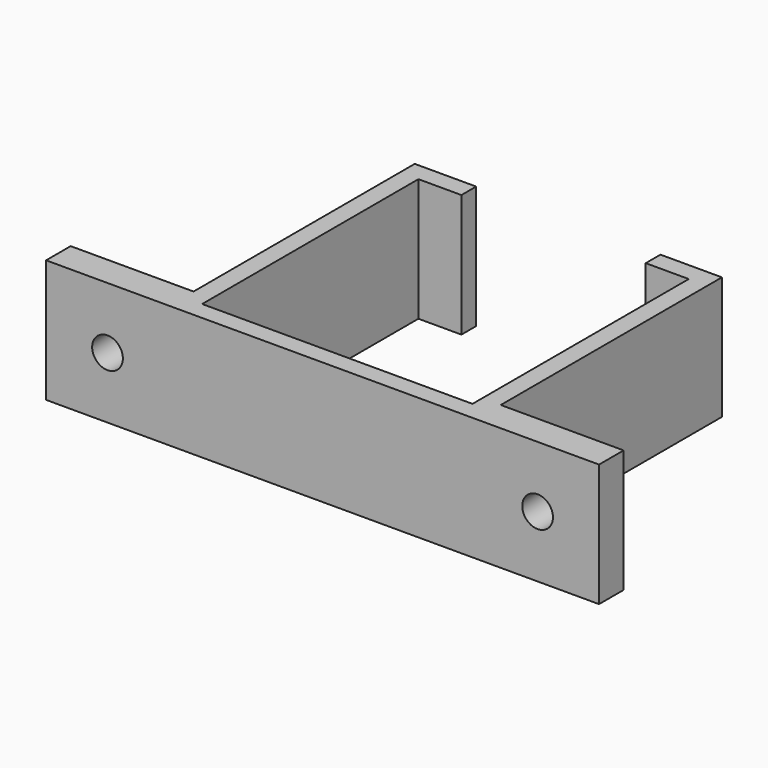
from build123d import *

# Parameters (mm, degrees)
F0_W     = 20
F0_H     = 5
F1_DEPTH = 20
F2_R     = 2.5
F3_DEPTH = 25


with BuildPart() as f1:
    # F0 (on Top) → F1 (new body)
    with BuildSketch(Plane.XY):
        Polygon((44, 0), (0, 0), (0, 44), (7, 44), (7, 47), (-3, 47), (-3, 2), (-3, -3), (47, -3), (47, 2), (47, 47), (37, 47), (37, 44), (44, 44), align=None)
        with Locations((-13, -0.5)):
            Rectangle(F0_W, F0_H)
        with Locations((57, -0.5)):
            Rectangle(F0_W, F0_H)
    extrude(amount=F1_DEPTH)

    # F2 (on face) → F3 (cut)
    with BuildSketch(Plane(origin=(0, 2, 0), x_dir=(-1, 0, 0), z_dir=(0, 1, 0))):
        with Locations((-57, 10)):
            Circle(F2_R)
        with Locations((13, 10)):
            Circle(F2_R)
    extrude(amount=-F3_DEPTH, mode=Mode.SUBTRACT)


solid = f1.part
